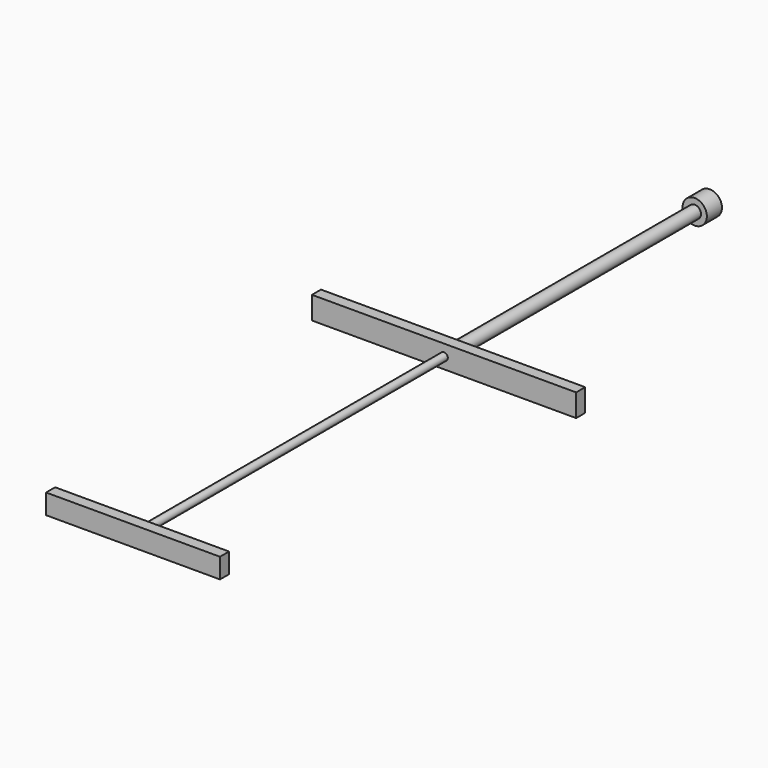
from build123d import *

# Parameters (mm, degrees)
F0_R     = 25.4
F1_DEPTH = 2540
F2_W     = 1170.288802
F2_H     = 134.52828
F3_DEPTH = 76.2
F4_W     = 1778
F4_H     = 152.4
F5_DEPTH = 76.2
F6_R     = 42.375834
F7_DEPTH = 2032
F8_R     = 81.903874
F9_DEPTH = 127


with BuildPart() as f1:
    # F0 (on Front) → F1 (new body)
    with BuildSketch(Plane.XZ):
        Circle(F0_R)
    extrude(amount=F1_DEPTH)

    # F2 (on face) → F3 (join)
    with BuildSketch(Plane.XZ.offset(2540)):
        Rectangle(F2_W, F2_H)
    extrude(amount=F3_DEPTH)

    # F4 (on face) → F5 (join)
    with BuildSketch(Plane(origin=(0, 0, 0), x_dir=(-1, 0, 0), z_dir=(0, 1, 0))):
        Rectangle(F4_W, F4_H)
    extrude(amount=F5_DEPTH)

    # F6 (on face) → F7 (join)
    with BuildSketch(Plane(origin=(0, 76.2, 0), x_dir=(-1, 0, 0), z_dir=(0, 1, 0))):
        Circle(F6_R)
    extrude(amount=F7_DEPTH)

    # F8 (on face) → F9 (join)
    with BuildSketch(Plane(origin=(0, 2108.2, 0), x_dir=(-1, 0, 0), z_dir=(0, 1, 0))):
        Circle(F8_R)
    extrude(amount=F9_DEPTH)


solid = f1.part
